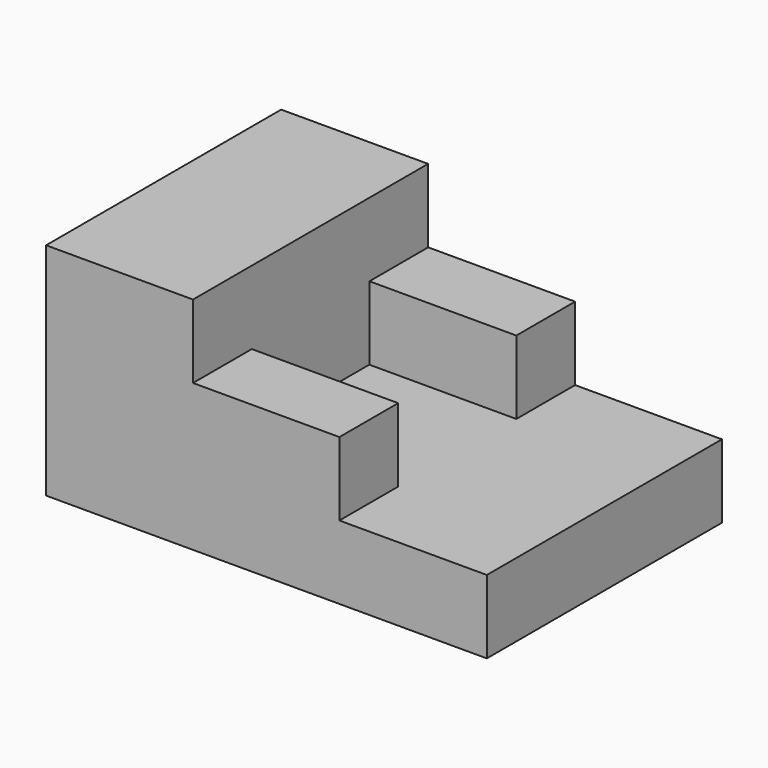
from build123d import *

# Parameters (mm, degrees)
F0_W     = 60
F0_H     = 40
F3_DEPTH = 10
F1_W     = 20
F1_H     = 40
F4_DEPTH = 30
F2_W     = 20
F2_H     = 10
F5_DEPTH = 20


with BuildPart() as f3:
    # F0 (on Top) → F3 (new body)
    with BuildSketch(Plane.XY):
        with Locations((30, 20)):
            Rectangle(F0_W, F0_H)
    extrude(amount=F3_DEPTH)

    # F1 (on Top) → F4 (join)
    with BuildSketch(Plane.XY):
        with Locations((10, 20)):
            Rectangle(F1_W, F1_H)
    extrude(amount=F4_DEPTH)

    # F2 (on Top) → F5 (join)
    with BuildSketch(Plane.XY):
        with Locations((29.928178, 5)):
            Rectangle(F2_W, F2_H)
        with Locations((30.014171, 35)):
            Rectangle(F2_W, F2_H)
    extrude(amount=F5_DEPTH)


solid = f3.part
